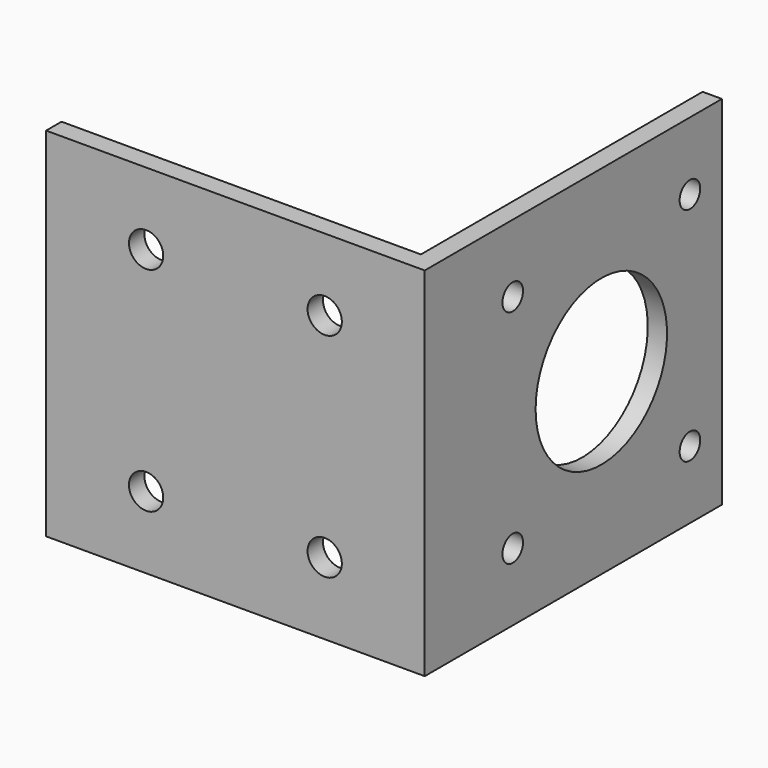
from build123d import *

# Parameters (mm, degrees)
PAD_DEPTH       = 50
SKETCH001_R     = 11.5
SKETCH001_R_2   = 1.8
POCKET_DEPTH    = 2.7
SKETCH002_R     = 2.4
POCKET001_DEPTH = 5


with BuildPart() as part:
    # Sketch → Pad (new body)
    with BuildSketch(Plane.XY):
        Polygon((-2.7, 2.7), (-53, 2.7), (-53, 0), (0, 0), (0, 52), (-2.7, 52), align=None)
    extrude(amount=PAD_DEPTH)

    # Sketch001 → Pocket (cut)
    with BuildSketch(Plane(origin=(-2.7, 0, 0), x_dir=(0, -1, 0), z_dir=(-1, 0, 0))):
        with Locations((-30.9, 25)):
            Circle(SKETCH001_R)
        with Locations((-46.4, 40.5)):
            Circle(SKETCH001_R_2)
        with Locations((-15.4, 40.5)):
            Circle(SKETCH001_R_2)
        with Locations((-15.4, 9.5)):
            Circle(SKETCH001_R_2)
        with Locations((-46.4, 9.5)):
            Circle(SKETCH001_R_2)
    extrude(amount=-POCKET_DEPTH, mode=Mode.SUBTRACT)

    # Sketch002 → Pocket001 (cut)
    with BuildSketch(Plane(origin=(0, 2.7, 0), x_dir=(-1, 0, 0), z_dir=(0, 1, 0))):
        with Locations((14, 39.9)):
            Circle(SKETCH002_R)
        with Locations((39, 39.9)):
            Circle(SKETCH002_R)
        with Locations((39, 10.1)):
            Circle(SKETCH002_R)
        with Locations((14, 10.1)):
            Circle(SKETCH002_R)
    extrude(amount=-POCKET001_DEPTH, mode=Mode.SUBTRACT)


solid = part.part
